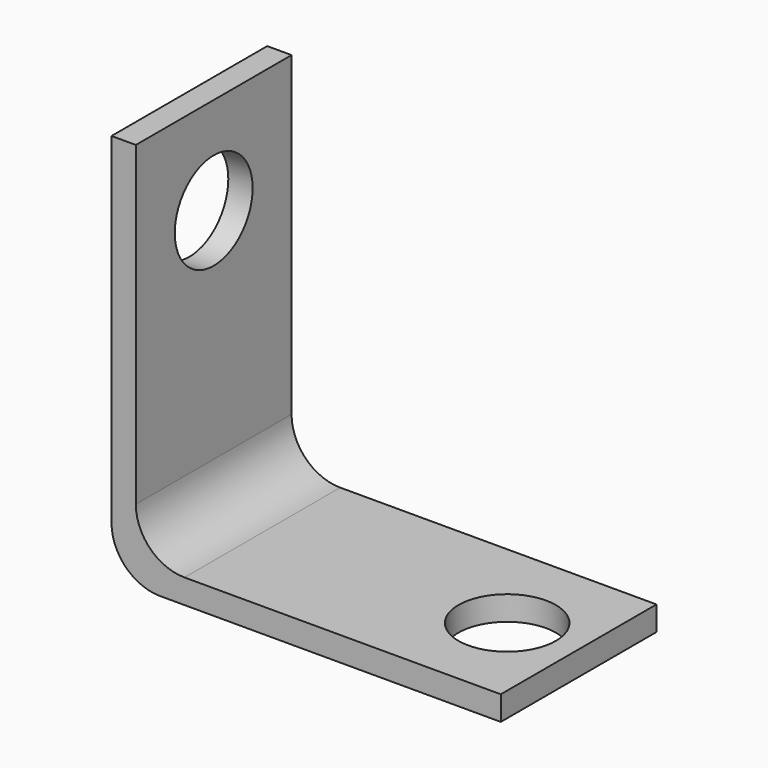
from build123d import *

# Parameters (mm, degrees)
F1_DEPTH = 12.7
F3_R     = 3.175
F4_DEPTH = 1.5875
F7_DEPTH = 1.5875


with BuildPart() as f1:
    # F0 (on Front) → F1 (new body)
    with BuildSketch(Plane.XZ):
        with BuildLine():
            Line((1.5875, 25.4), (0, 25.4))
            Line((0, 25.4), (0, 3.175))
            ThreePointArc((0, 3.175), (0.929936, 0.929936), (3.175, 0))
            Line((3.175, 0), (25.4, 0))
            Line((25.4, 0), (25.4, 1.5875))
            Line((25.4, 1.5875), (4.7625, 1.5875))
            ThreePointArc((4.7625, 1.5875), (2.517436, 2.517436), (1.5875, 4.7625))
            Line((1.5875, 4.7625), (1.5875, 25.4))
        make_face()
    extrude(amount=F1_DEPTH)

    # F3 (on offset) → F4 (cut)
    with BuildSketch(Plane.YZ.offset(1.5875)):
        with Locations((-6.35, 19.05)):
            Circle(F3_R)
    extrude(amount=-F4_DEPTH, mode=Mode.SUBTRACT)

    # F6 (on offset) → F7 (cut)
    with BuildSketch(Plane.XY.offset(1.5875)):
        with BuildLine():
            ThreePointArc((17.562297, -6.35), (20.737297, -9.525), (23.912297, -6.35))
            ThreePointArc((23.912297, -6.35), (20.737297, -3.175), (17.562297, -6.35))
        make_face()
    extrude(amount=-F7_DEPTH, mode=Mode.SUBTRACT)


solid = f1.part
